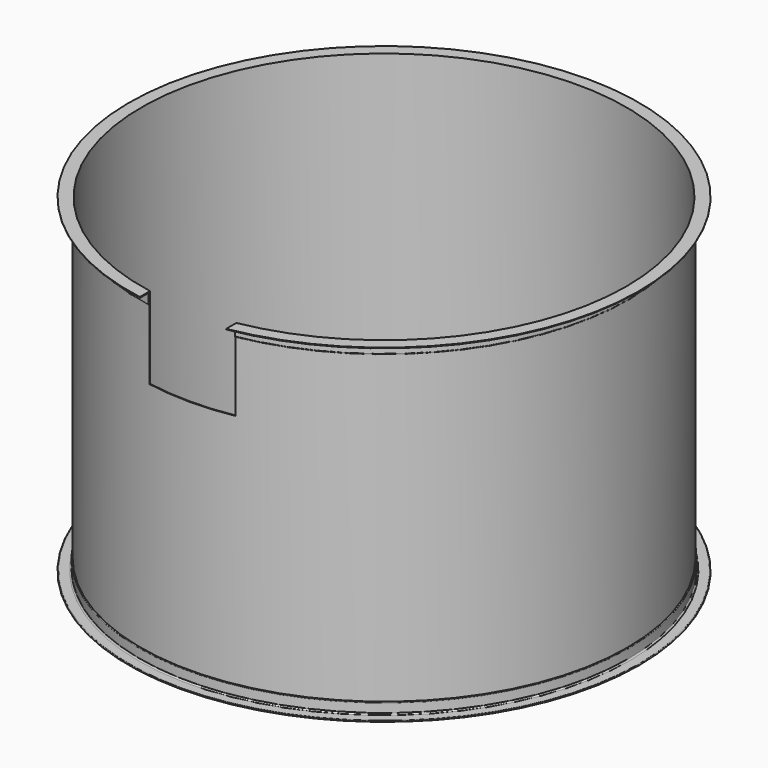
from build123d import *

# Parameters (mm, degrees)
SKETCH001_W      = 550
SKETCH001_H      = 520
EXTRUDE010_DEPTH = 1700
SKETCH_W         = 5
SKETCH_H         = 2100


with BuildPart() as extrude010:
    # Sketch001 → Extrude010 (new body)
    with BuildSketch(Plane.XZ):
        with Locations((0, 1840)):
            Rectangle(SKETCH001_W, SKETCH001_H)
    extrude(amount=EXTRUDE010_DEPTH)


with BuildPart() as revolve001:
    # AngleSteel003 → Revolve001 (revolve)
    with BuildSketch(Plane(origin=(1570.58985, 0, 20.58985), x_dir=(1, 0, 0), z_dir=(0, 1, 0))):
        with BuildLine():
            Line((-20.58985, 20.58985), (-20.58985, -54.41015))
            Line((-20.58985, -54.41015), (-18.58985, -54.41015))
            ThreePointArc((-18.58985, -54.41015), (-15.761423, -53.238577), (-14.58985, -50.41015))
            Line((-14.58985, -50.41015), (-14.58985, 6.08985))
            ThreePointArc((-14.58985, 6.08985), (-12.100258, 12.100258), (-6.08985, 14.58985))
            Line((-6.08985, 14.58985), (50.41015, 14.58985))
            ThreePointArc((50.41015, 14.58985), (53.238577, 15.761423), (54.41015, 18.58985))
            Line((54.41015, 18.58985), (54.41015, 20.58985))
            Line((54.41015, 20.58985), (-20.58985, 20.58985))
        make_face()
    revolve(axis=Axis((0, 0, 0), (0, 0, 1)))


with BuildPart() as revolve002:
    # AngleSteel004 → Revolve002 (revolve)
    with BuildSketch(Plane(origin=(1570.58985, 0, 2079.41015), x_dir=(1, 0, 0), z_dir=(0, 1, 0))):
        with BuildLine():
            Line((-20.58985, -20.58985), (54.41015, -20.58985))
            Line((54.41015, -20.58985), (54.41015, -18.58985))
            ThreePointArc((54.41015, -18.58985), (53.238577, -15.761423), (50.41015, -14.58985))
            Line((50.41015, -14.58985), (-6.08985, -14.58985))
            ThreePointArc((-6.08985, -14.58985), (-12.100258, -12.100258), (-14.58985, -6.08985))
            Line((-14.58985, -6.08985), (-14.58985, 50.41015))
            ThreePointArc((-14.58985, 50.41015), (-15.761423, 53.238577), (-18.58985, 54.41015))
            Line((-18.58985, 54.41015), (-20.58985, 54.41015))
            Line((-20.58985, 54.41015), (-20.58985, -20.58985))
        make_face()
    revolve(axis=Axis((0, 0, 0), (0, 0, 1)))


with BuildPart() as cut003:
    # Sketch → Revolve (revolve)
    with BuildSketch(Plane.XZ):
        with Locations((1547.5, 1050)):
            Rectangle(SKETCH_W, SKETCH_H)
    revolve(axis=Axis((0, 0, 0), (0, 0, 1)))

    # Fusion: union Revolve001, Revolve002
    add(revolve001.part)
    add(revolve002.part)

    # Cut003: cut Extrude010
    add(extrude010.part, mode=Mode.SUBTRACT)


solid = cut003.part
